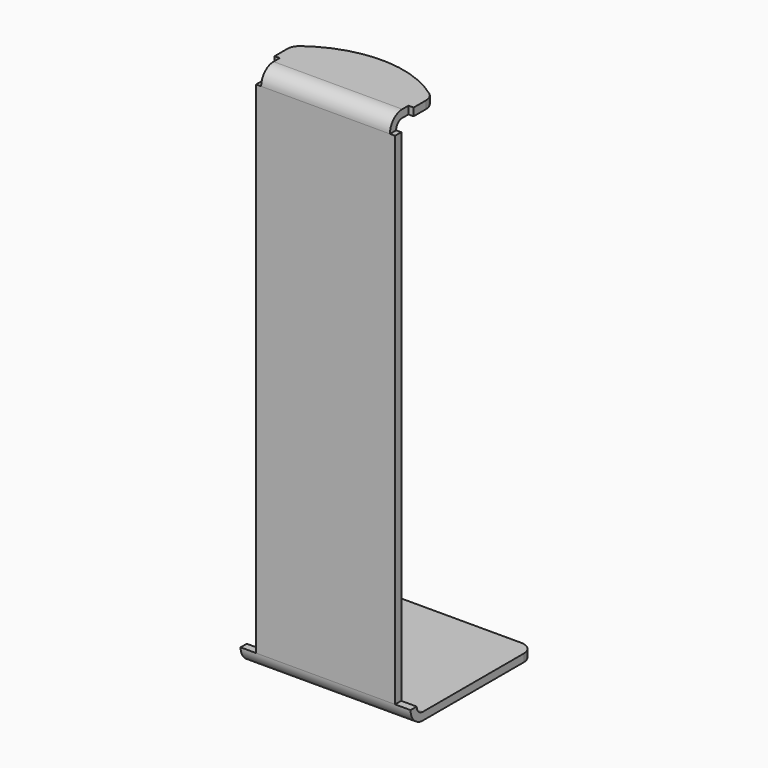
from build123d import *

# Parameters (mm, degrees)
SKETCH_W        = 33
SKETCH_H        = 30
PAD_DEPTH       = 1.5
SKETCH001_W     = 33
SKETCH001_H     = 1.5
PAD001_DEPTH    = 101.7
FILLET_R        = 3
FILLET001_R     = 1.5
SKETCH002_W     = 3
SKETCH002_H     = 110
POCKET_DEPTH    = 5
SKETCH003_W     = 25
SKETCH003_H     = 1.5
PAD002_DEPTH    = 3
SKETCH004_W     = 1
SKETCH004_H     = 3
POCKET001_DEPTH = 5
PAD003_DEPTH    = 1.5
FILLET002_R     = 3
FILLET003_R     = 1.5
FILLET004_R     = 2.5


with BuildPart() as part:
    # Sketch → Pad (new body)
    with BuildSketch(Plane.XY):
        Rectangle(SKETCH_W, SKETCH_H)
    extrude(amount=PAD_DEPTH)

    # Sketch001 → Pad001 (new body)
    with BuildSketch(Plane.XY.offset(1.5)):
        with Locations((0, -14.25)):
            Rectangle(SKETCH001_W, SKETCH001_H)
    extrude(amount=PAD001_DEPTH)

    # Fillet
    fillet_edges = [part.edges().sort_by_distance(p)[0] for p in [
        (0, -15, 0),
    ]]
    fillet(fillet_edges, radius=FILLET_R)

    # Fillet001
    fillet001_edges = [part.edges().sort_by_distance(p)[0] for p in [
        (0, -13.5, 1.5),
    ]]
    fillet(fillet001_edges, radius=FILLET001_R)

    # Sketch002 → Pocket (cut)
    with BuildSketch(Plane(origin=(0, -13.5, 0), x_dir=(-1, 0, 0), z_dir=(0, 1, 0))):
        with Locations((-15, 58)):
            Rectangle(SKETCH002_W, SKETCH002_H)
        with Locations((15, 58)):
            Rectangle(SKETCH002_W, SKETCH002_H)
    extrude(amount=-POCKET_DEPTH, mode=Mode.SUBTRACT)

    # Sketch003 → Pad002 (new body)
    with BuildSketch(Plane(origin=(0, -13.5, 0), x_dir=(-1, 0, 0), z_dir=(0, 1, 0))):
        with Locations((0, 102.45)):
            Rectangle(SKETCH003_W, SKETCH003_H)
    extrude(amount=PAD002_DEPTH)

    # Sketch004 → Pocket001 (cut)
    with BuildSketch(Plane.XZ.offset(15)):
        with Locations((-13, 101.7)):
            Rectangle(SKETCH004_W, SKETCH004_H)
        with Locations((13, 101.7)):
            Rectangle(SKETCH004_W, SKETCH004_H)
    extrude(amount=-POCKET001_DEPTH, mode=Mode.SUBTRACT)

    # Sketch005 → Pad003 (new body)
    with BuildSketch(Plane.XY.offset(103.2)):
        with BuildLine():
            Line((-13.5, -10.5), (13.5, -10.5))
            Line((13.5, -10.5), (13.5, -7.46))
            ThreePointArc((13.5, -7.46), (13.2333, -6.331967), (12.4865, -5.445471))
            ThreePointArc((12.4865, -5.445471), (-1e-06, -1.33), (-12.486501, -5.445472))
            ThreePointArc((-12.486501, -5.445472), (-13.2333, -6.331968), (-13.5, -7.46))
            Line((-13.5, -10.5), (-13.5, -7.46))
        make_face()
    extrude(amount=-PAD003_DEPTH)

    # Fillet002
    fillet002_edges = [part.edges().sort_by_distance(p)[0] for p in [
        (0, -15, 103.2),
    ]]
    fillet(fillet002_edges, radius=FILLET002_R)

    # Fillet003
    fillet003_edges = [part.edges().sort_by_distance(p)[0] for p in [
        (0, -13.5, 101.7),
    ]]
    fillet(fillet003_edges, radius=FILLET003_R)

    # Fillet004
    fillet004_edges = [part.edges().sort_by_distance(p)[0] for p in [
        (16.5, 15, 0.75),
        (-16.5, 15, 0.75),
    ]]
    fillet(fillet004_edges, radius=FILLET004_R)


solid = part.part
